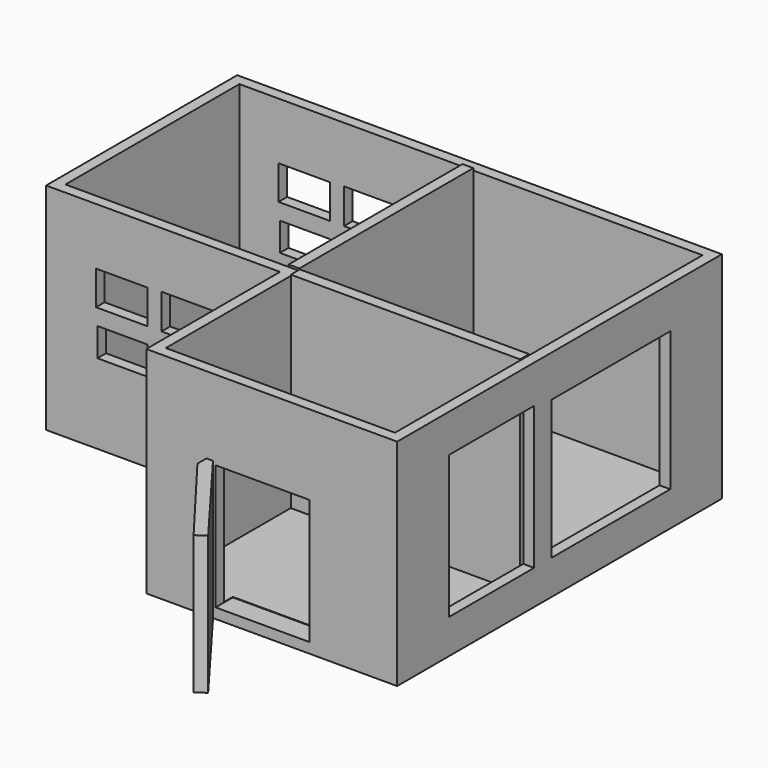
from build123d import *

# Parameters (mm, degrees)
F0_W      = 59.2034347355
F0_H      = 39.4279696047
F1_DEPTH  = 50.8
F2_T      = -2.54
F3_W      = 12.1403969824
F3_H      = 8.035345003
F3_W_2    = 12.169610709
F3_H_2    = 8.255334571
F3_W_3    = 12.2919734567
F3_H_3    = 8.0133527517
F3_W_4    = 11.809963733
F3_H_4    = 6.7030247301
F4_DEPTH  = 304.8
F5_W      = 25.1509935988
F5_H      = 33.6675519442
F5_W_2    = 35.1178152452
F5_H_2    = 32.8409761062
F6_DEPTH  = 25.4
F7_W      = 19.4892128929
F7_H      = 32.6723456383
F8_DEPTH  = 25.4
F10_DEPTH = 44.958
F12_DEPTH = 45.974
F14_DEPTH = 38.1
F16_W     = 22.1592243761
F16_H     = 29.5382153708
F17_DEPTH = 5.08
F18_W     = 2.54
F18_H     = 51.3208392394
F19_DEPTH = 48.768
F20_W     = 54.1234347355
F20_H     = 2.6716254652
F21_DEPTH = 48.514


with BuildPart() as f1:
    # F0 (on Top) → F1 (new body)
    with BuildSketch(Plane.XY):
        Polygon((59.2034347355, 56.4008392394), (-55.2182495594, 56.4008392394), (-55.2182495594, 0), (0, 0), (59.2034347355, 0), align=None)
        with Locations((29.6017173678, -19.7139848024)):
            Rectangle(F0_W, F0_H)
    extrude(amount=F1_DEPTH)

    # F2
    f2_openings = [f1.faces().sort_by_distance(p)[0] for p in [
        (9.326345, 15.473019, 50.8),
    ]]
    offset(amount=F2_T, openings=f2_openings, kind=Kind.INTERSECTION)

    # F3 (on Front) → F4 (cut)
    with BuildSketch(Plane.XZ):
        with Locations((-37.3727958649, 33.3452494815)):
            Rectangle(F3_W, F3_H)
        with Locations((-21.8836758286, 33.4552442655)):
            Rectangle(F3_W_2, F3_H_2)
        with Locations((-21.9448572025, 22.8410381824)):
            Rectangle(F3_W_3, F3_H_3)
        with Locations((-37.2075792402, 22.1858741716)):
            Rectangle(F3_W_4, F3_H_4)
    extrude(amount=-F4_DEPTH, mode=Mode.SUBTRACT)

    # F5 (on face) → F6 (cut)
    with BuildSketch(Plane.YZ.offset(59.2034347355)):
        with Locations((-11.6124728053, 24.9852682464)):
            Rectangle(F5_W, F5_H)
        with Locations((23.6019316167, 24.5719803274)):
            Rectangle(F5_W_2, F5_H_2)
    extrude(amount=-F6_DEPTH, mode=Mode.SUBTRACT)

    # F7 (on face) → F8 (join)
    with BuildSketch(Plane.XZ.offset(39.4279696047)):
        with Locations((23.9334818907, 16.3361728191)):
            Rectangle(F7_W, F7_H)
    extrude(amount=F8_DEPTH)

    # F9 (on face) → F10 (cut)
    with BuildSketch(Plane.XY.offset(32.6723456383)):
        Polygon((14.1888754442, -42.09953174), (14.1888754442, -64.8279696047), (31.4645133913, -64.8279696047), align=None)
    extrude(amount=-F10_DEPTH, mode=Mode.SUBTRACT)

    # F11 (on face) → F12 (cut)
    with BuildSketch(Plane.XY.offset(32.6723456383)):
        Polygon((15.7361254096, -39.4279696047), (33.6780883372, -63.2997527719), (33.6780883372, -39.4279696047), align=None)
    extrude(amount=-F12_DEPTH, mode=Mode.SUBTRACT)

    # F13 (on face) → F14 (cut)
    with BuildSketch(Plane.XY.offset(32.6723456383)):
        Polygon((33.6780883372, -63.2997527719), (31.4645133913, -64.8279696047), (33.6780883372, -64.8279696047), align=None)
    extrude(amount=-F14_DEPTH, mode=Mode.SUBTRACT)

    # F16 (on face) → F17 (cut)
    with BuildSketch(Plane.XZ.offset(39.4279696047)):
        with Locations((27.4216728285, 17.1910146018)):
            Rectangle(F16_W, F16_H)
    extrude(amount=-F17_DEPTH, mode=Mode.SUBTRACT)

    # F18 (on face) → F19 (join)
    with BuildSketch(Plane.XY.offset(2.54)):
        with Locations((1.27, 28.2004196197)):
            Rectangle(F18_W, F18_H)
    extrude(amount=F19_DEPTH)

    # F20 (on face) → F21 (join)
    with BuildSketch(Plane.XY.offset(2.54)):
        with Locations((29.6017173678, 1.3358127326)):
            Rectangle(F20_W, F20_H)
    extrude(amount=F21_DEPTH)


solid = f1.part
